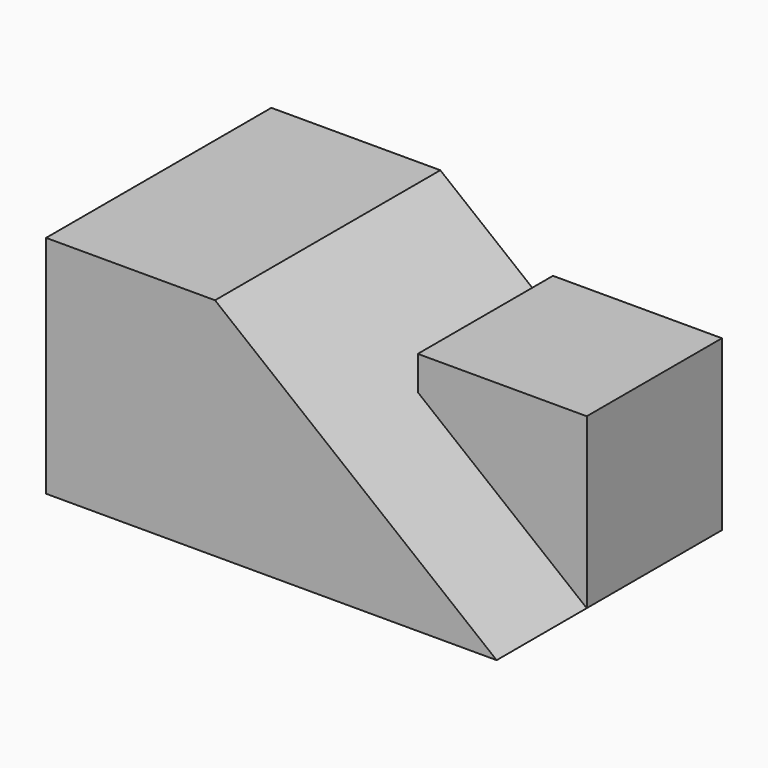
from build123d import *

# Parameters (mm, degrees)
F0_W     = 50.8
F0_H     = 31.75
F1_DEPTH = 25.4
F3_DEPTH = 31.75
F4_W     = 19.05
F4_H     = 19.05
F5_DEPTH = 19.05


with BuildPart() as f1:
    # F0 (on Top) → F1 (new body)
    with BuildSketch(Plane.XY):
        with Locations((25.4, 15.875)):
            Rectangle(F0_W, F0_H)
    extrude(amount=F1_DEPTH)

    # F2 (on face) → F3 (cut)
    with BuildSketch(Plane.XZ):
        Polygon((19.05, 25.4), (50.8, 0), (50.8, 25.4), align=None)
    extrude(amount=-F3_DEPTH, mode=Mode.SUBTRACT)

    # F4 (on face) → F5 (join)
    with BuildSketch(Plane(origin=(0, 0, 0), x_dir=(1, 0, 0), z_dir=(0, 0, -1))):
        with Locations((41.275, -22.225)):
            Rectangle(F4_W, F4_H)
    extrude(amount=-F5_DEPTH)


solid = f1.part
